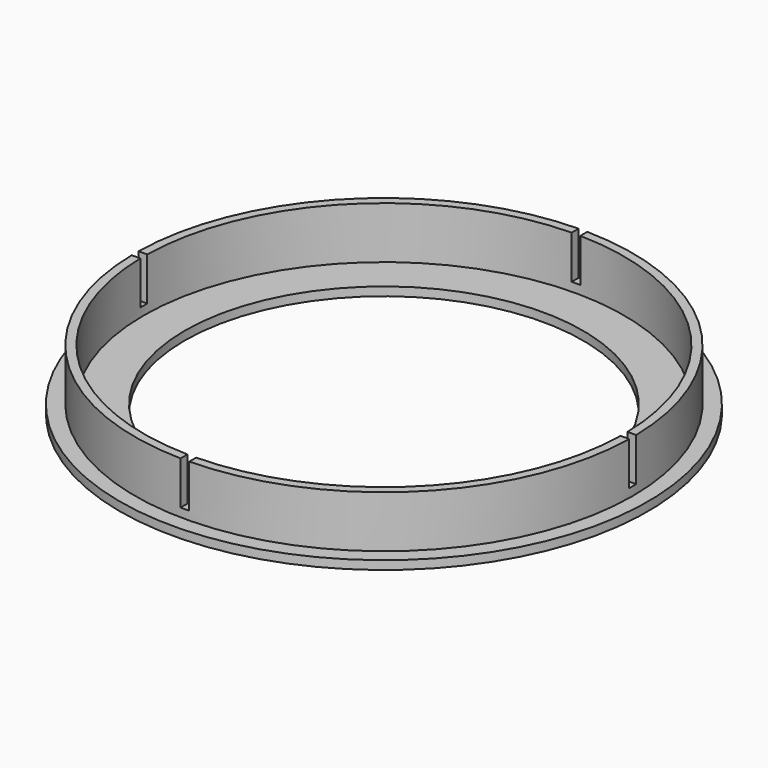
from build123d import *

# Parameters (mm, degrees)
F0_R      = 61
F1_DEPTH  = 2
F2_R      = 57.5
F3_DEPTH  = 12
F4_R      = 46
F5_DEPTH  = 112.4
F6_R      = 55.5
F6_R_2    = 46
F7_DEPTH  = 12
F9_DEPTH  = 25
F10_W     = 130.4447948933
F10_H     = 2
F11_DEPTH = 10
F12_W     = 2
F12_H     = 119
F13_DEPTH = 10


with BuildPart() as f1:
    # F0 (on Top) → F1 (new body)
    with BuildSketch(Plane.XY):
        Circle(F0_R)
    extrude(amount=F1_DEPTH)

    # F2 (on face) → F3 (join)
    with BuildSketch(Plane.XY.offset(2)):
        Circle(F2_R)
    extrude(amount=F3_DEPTH)

    # F4 (on face) → F5 (cut)
    with BuildSketch(Plane.XY.offset(14)):
        Circle(F4_R)
    extrude(amount=-F5_DEPTH, mode=Mode.SUBTRACT)

    # F6 (on face) → F7 (cut)
    with BuildSketch(Plane.XY.offset(14)):
        Circle(F6_R)
        Circle(F6_R_2, mode=Mode.SUBTRACT)
    extrude(amount=-F7_DEPTH, mode=Mode.SUBTRACT)

    # F8 (on face) → F9 (cut)
    with BuildSketch(Plane.XY.offset(2)):
        with BuildLine():
            Line((-58.5, -17.2843860174), (-58.5, 17.2843860174))
            ThreePointArc((-58.5, 17.2843860174), (-61, 0), (-58.5, -17.2843860174))
        make_face()
    extrude(amount=-F9_DEPTH, mode=Mode.SUBTRACT)

    # F10 (on face) → F11 (cut)
    with BuildSketch(Plane.XY.offset(14)):
        Rectangle(F10_W, F10_H)
    extrude(amount=-F11_DEPTH, mode=Mode.SUBTRACT)

    # F12 (on face) → F13 (cut)
    with BuildSketch(Plane.XY.offset(14)):
        Rectangle(F12_W, F12_H)
    extrude(amount=-F13_DEPTH, mode=Mode.SUBTRACT)


solid = f1.part
